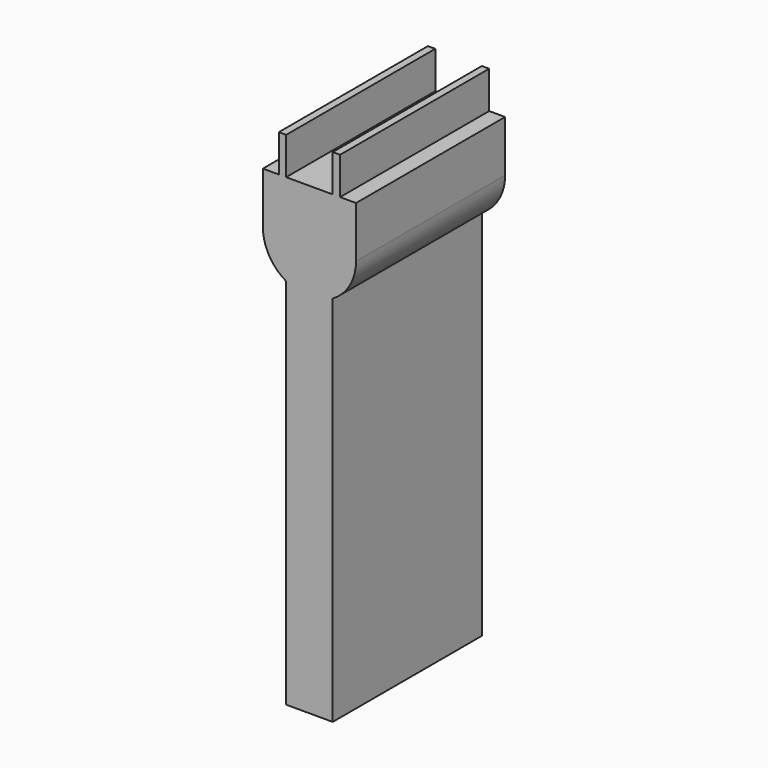
from build123d import *

# Parameters (mm, degrees)
F1_DEPTH = 25.4


with BuildPart() as f1:
    # F0 (on Front) → F1 (new body)
    with BuildSketch(Plane.XZ):
        with BuildLine():
            Line((-3.175, 25.4), (-3.175, -25.4))
            Line((-3.175, -25.4), (3.175, -25.4))
            Line((3.175, -25.4), (3.175, 25.4))
            ThreePointArc((3.175, 25.4), (5.499261, 27.724261), (6.35, 30.899261))
            Line((6.35, 30.899261), (6.35, 37.884261))
            Line((6.35, 37.884261), (4.175, 37.884261))
            Line((4.175, 37.884261), (4.175, 42.964261))
            Line((4.175, 42.964261), (3.175, 42.964261))
            Line((3.175, 42.964261), (3.175, 37.884261))
            Line((3.175, 37.884261), (-3.175, 37.884261))
            Line((-3.175, 37.884261), (-3.175, 42.964261))
            Line((-3.175, 42.964261), (-4.175, 42.964261))
            Line((-4.175, 42.964261), (-4.175, 37.884261))
            Line((-4.175, 37.884261), (-6.35, 37.884261))
            Line((-6.35, 37.884261), (-6.35, 30.899261))
            ThreePointArc((-6.35, 30.899261), (-5.499261, 27.724261), (-3.175, 25.4))
        make_face()
    extrude(amount=F1_DEPTH)


solid = f1.part
